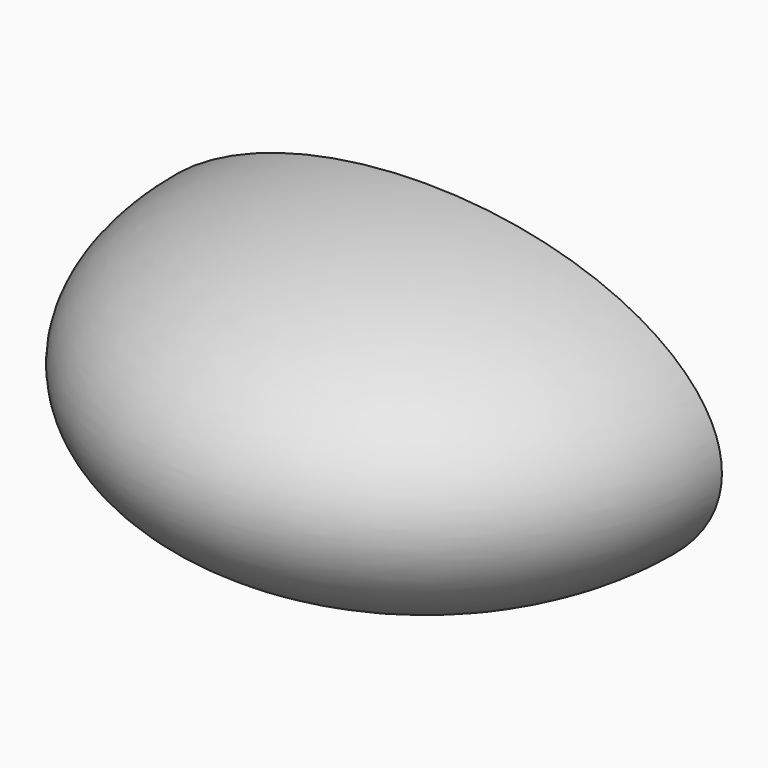
from build123d import *

# Parameters (mm, degrees)
F1_ANGLE = 180


with BuildPart() as f1:
    # F0 (on Front) → F1 (revolve)
    with BuildSketch(Plane.XZ):
        with BuildLine():
            Line((0, -3.75), (0, 3.75))
            add(Edge.make_bspline(
                [(0, 3.75), (-7, 3.75), (-7, 0), (-7, -3.75), (0, -3.75)],
                knots=[4.7123889804, 4.7123889804, 4.7123889804, 6.2831853072, 6.2831853072, 7.853981634, 7.853981634, 7.853981634], degree=2, weights=[1, 0.7071067812, 1, 0.7071067812, 1]))
        make_face()
    revolve(axis=Axis((0, 0, 0), (0, 0, 1)), revolution_arc=F1_ANGLE)


solid = f1.part
